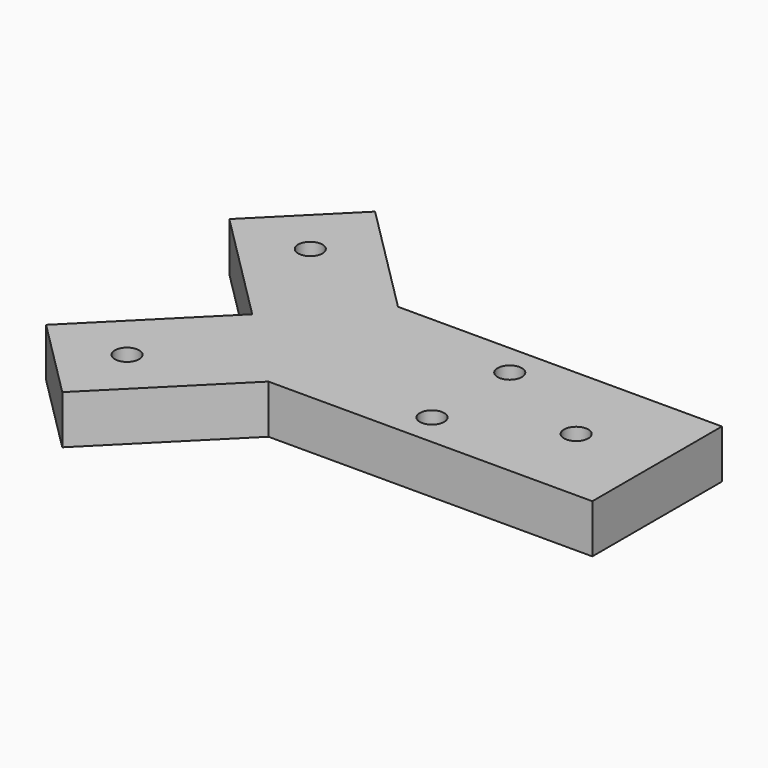
from build123d import *

# Parameters (mm, degrees)
F0_R     = 1.5
F1_DEPTH = 6


with BuildPart() as f1:
    # F0 (on Top) → F1 (new body)
    with BuildSketch(Plane.XY):
        Polygon((-20.092445, 11.328948), (-34.234581, 25.471083), (-44.234581, 15.471083), (-30.092445, 1.328948), (-44.234581, -12.813188), (-34.234581, -22.813188), (-20.092445, -8.671052), (19.907555, -8.671052), (19.907555, 11.328948), align=None)
        with Locations((-34.234629, -12.813236)):
            Circle(F0_R, mode=Mode.SUBTRACT)
        with Locations((-3.092445, -4.671052)):
            Circle(F0_R, mode=Mode.SUBTRACT)
        with Locations((-34.234629, 15.471131)):
            Circle(F0_R, mode=Mode.SUBTRACT)
        with Locations((-3.092445, 7.328948)):
            Circle(F0_R, mode=Mode.SUBTRACT)
        with Locations((9.907555, 1.328948)):
            Circle(F0_R, mode=Mode.SUBTRACT)
    extrude(amount=F1_DEPTH)


solid = f1.part
